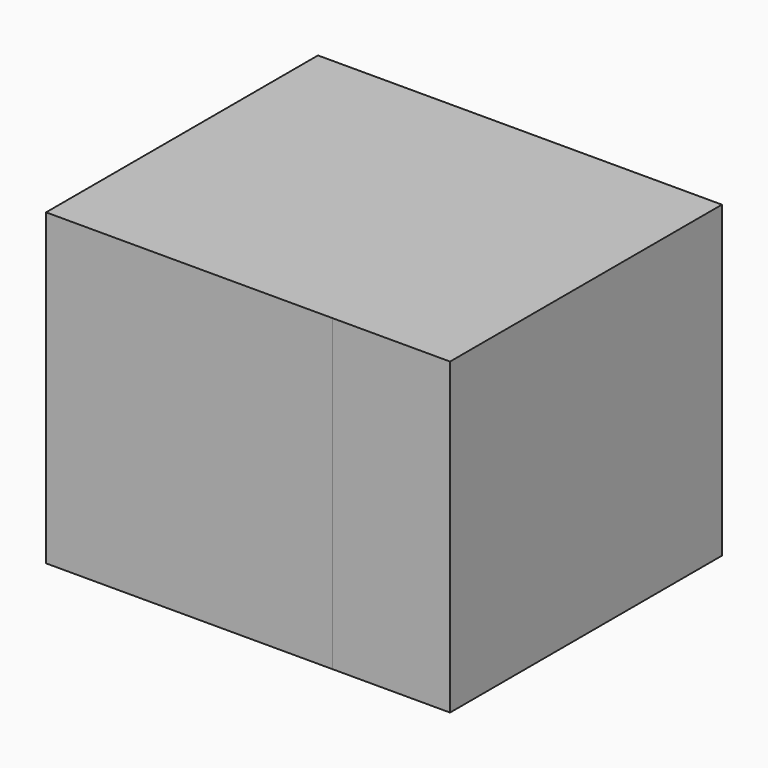
from build123d import *

# Parameters (mm, degrees)
F0_W      = 72.346173
F0_H      = 65.787826
F1_DEPTH  = 61
F1_FACE_W = 72.346174
F1_FACE_H = 65.787826
F2_DEPTH  = 25


with BuildPart() as f1:
    # F0 (on Right) → F1 (new body)
    with BuildSketch(Plane.YZ):
        with Locations((16.879261, 17.518984)):
            Rectangle(F0_W, F0_H)
    extrude(amount=F1_DEPTH)

    # F1_face (on face) → F2 (join)
    with BuildSketch(Plane(origin=(61, 16.879261, 17.518984), x_dir=(0, 1, 0), z_dir=(1, 0, 0))):
        Rectangle(F1_FACE_W, F1_FACE_H)
        Rectangle(F1_FACE_W, F1_FACE_H)
    extrude(amount=F2_DEPTH)


solid = f1.part
